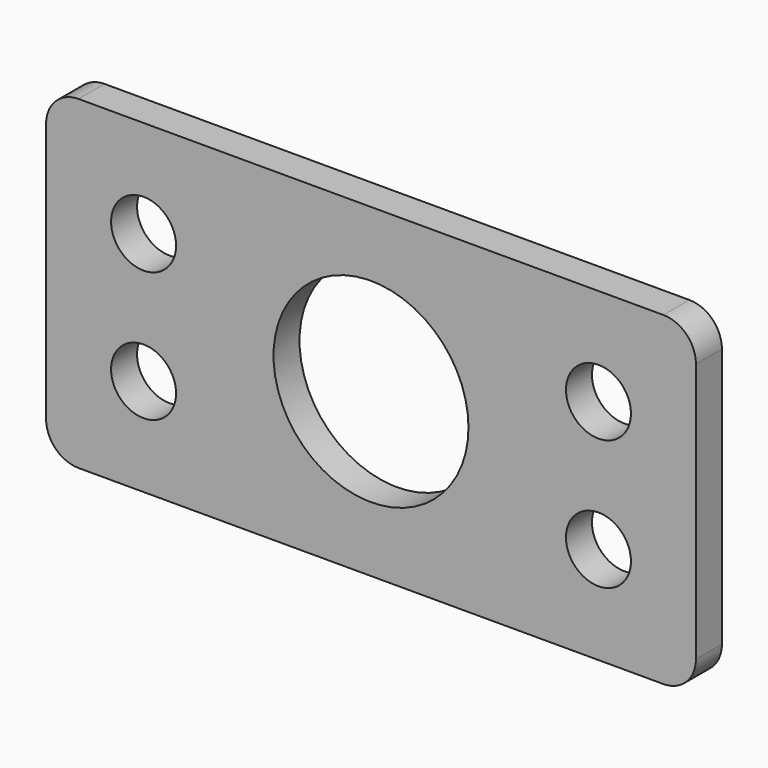
from build123d import *

# Parameters (mm, degrees)
SKETCH_W    = 200
SKETCH_H    = 100
SKETCH_R    = 30
SKETCH_R_2  = 10
PAD_DEPTH   = 10
FILLET_R    = 10
FILLET001_R = 10


with BuildPart() as part:
    # Sketch → Pad (new body)
    with BuildSketch(Plane.XZ):
        Rectangle(SKETCH_W, SKETCH_H)
        Circle(SKETCH_R, mode=Mode.SUBTRACT)
        with Locations((-70, 20)):
            Circle(SKETCH_R_2, mode=Mode.SUBTRACT)
        with Locations((70, 20)):
            Circle(SKETCH_R_2, mode=Mode.SUBTRACT)
        with Locations((70, -20)):
            Circle(SKETCH_R_2, mode=Mode.SUBTRACT)
        with Locations((-70, -20)):
            Circle(SKETCH_R_2, mode=Mode.SUBTRACT)
    extrude(amount=PAD_DEPTH)

    # Fillet
    fillet_edges = [part.edges().sort_by_distance(p)[0] for p in [
        (100, -5, -50),
        (100, -5, 50),
        (-100, -5, 50),
    ]]
    fillet(fillet_edges, radius=FILLET_R)

    # Fillet001
    fillet001_edges = [part.edges().sort_by_distance(p)[0] for p in [
        (-100, -5, -50),
    ]]
    fillet(fillet001_edges, radius=FILLET001_R)


solid = part.part
